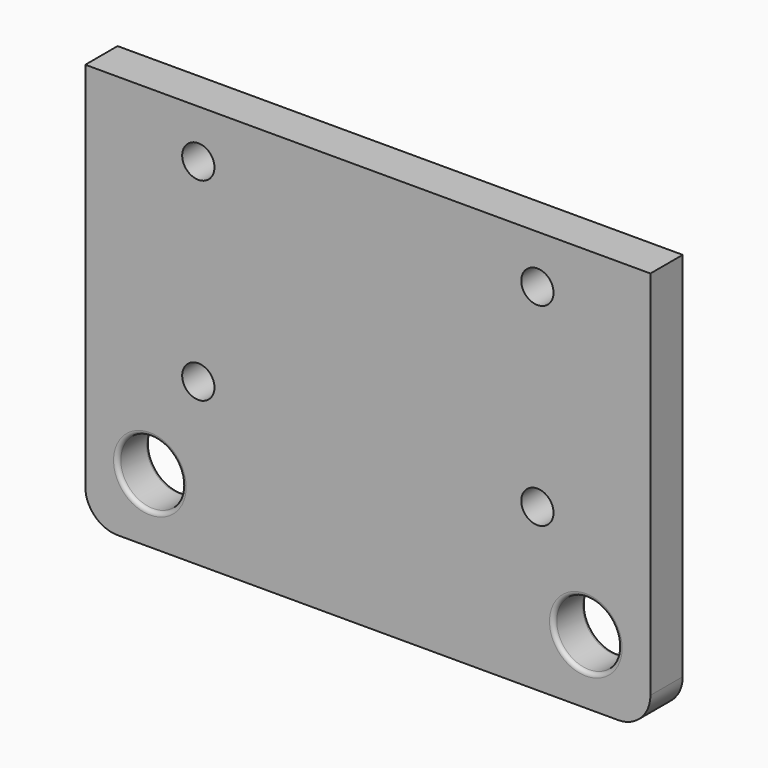
from build123d import *

# Parameters (mm, degrees)
F0_W     = 70
F0_H     = 50
F0_R     = 4
F0_R_2   = 2
F1_DEPTH = 5
F2_R     = 4
F3_R     = 0.5
F4_W     = 4
F4_H     = 10
F5_DEPTH = 15


with BuildPart() as f1:
    # F0 (on Front) → F1 (new body)
    with BuildSketch(Plane.XZ):
        Rectangle(F0_W, F0_H)
        with Locations((-27, -17)):
            Circle(F0_R, mode=Mode.SUBTRACT)
        with Locations((-21, -5)):
            Circle(F0_R_2, mode=Mode.SUBTRACT)
        with Locations((27, -17)):
            Circle(F0_R, mode=Mode.SUBTRACT)
        with Locations((21, -5)):
            Circle(F0_R_2, mode=Mode.SUBTRACT)
        with Locations((-21, 19)):
            Circle(F0_R_2, mode=Mode.SUBTRACT)
        with Locations((21, 19)):
            Circle(F0_R_2, mode=Mode.SUBTRACT)
    extrude(amount=F1_DEPTH)

    # F2
    f2_edges = [f1.edges().sort_by_distance(p)[0] for p in [
        (35, -2.5, -25),
        (-35, -2.5, -25),
    ]]
    fillet(f2_edges, radius=F2_R)

    # F3
    f3_edges = [f1.edges().sort_by_distance(p)[0] for p in [
        (-31, -5, -17),
        (23, -5, -17),
        (-31, 0, -17),
        (23, 0, -17),
    ]]
    fillet(f3_edges, radius=F3_R)

    # F4 (on face) → F5 (join)
    with BuildSketch(Plane(origin=(0, 0, 0), x_dir=(-1, 0, 0), z_dir=(0, 1, 0))):
        with Locations((-13, 10)):
            Rectangle(F4_W, F4_H)
        with Locations((13, 10)):
            Rectangle(F4_W, F4_H)
    extrude(amount=F5_DEPTH)


solid = f1.part
